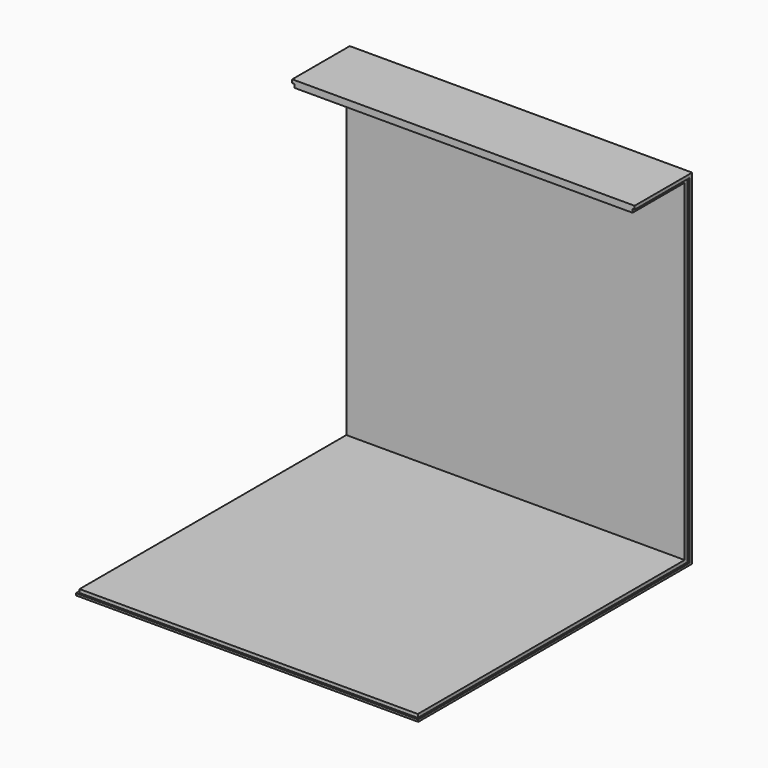
from build123d import *

# Parameters (mm, degrees)
F0_W      = 500
F0_H      = 500
F1_DEPTH  = 3
F2_W      = 494
F2_H      = 492
F3_DEPTH  = 5
F4_W      = 500
F4_H      = 5
F5_DEPTH  = 500
F6_W      = 494
F6_H      = 490
F7_DEPTH  = 5
F8_W      = 500
F8_H      = 5
F9_DEPTH  = 100
F10_W     = 494
F10_H     = 95
F12_DEPTH = 5


with BuildPart() as f1:
    # F0 (on Top) → F1 (new body)
    with BuildSketch(Plane.XY):
        Rectangle(F0_W, F0_H)
    extrude(amount=F1_DEPTH)

    # F2 (on face) → F3 (join)
    with BuildSketch(Plane.XY.offset(3)):
        with Locations((0, -1)):
            Rectangle(F2_W, F2_H)
    extrude(amount=F3_DEPTH)

    # F4 (on face) → F5 (join)
    with BuildSketch(Plane.XY.offset(3)):
        with Locations((0, 247.5)):
            Rectangle(F4_W, F4_H)
    extrude(amount=F5_DEPTH)

    # F6 (on face) → F7 (join)
    with BuildSketch(Plane.XZ.offset(-245)):
        with Locations((0, 253)):
            Rectangle(F6_W, F6_H)
    extrude(amount=F7_DEPTH)

    # F8 (on face) → F9 (join)
    with BuildSketch(Plane.XZ.offset(-245)):
        with Locations((0, 500.5)):
            Rectangle(F8_W, F8_H)
    extrude(amount=F9_DEPTH)

    # F10 (on face) → F12 (join)
    with BuildSketch(Plane(origin=(0, 0, 498), x_dir=(1, 0, 0), z_dir=(0, 0, -1))):
        with Locations((0, -192.5)):
            Rectangle(F10_W, F10_H)
    extrude(amount=F12_DEPTH)


solid = f1.part
